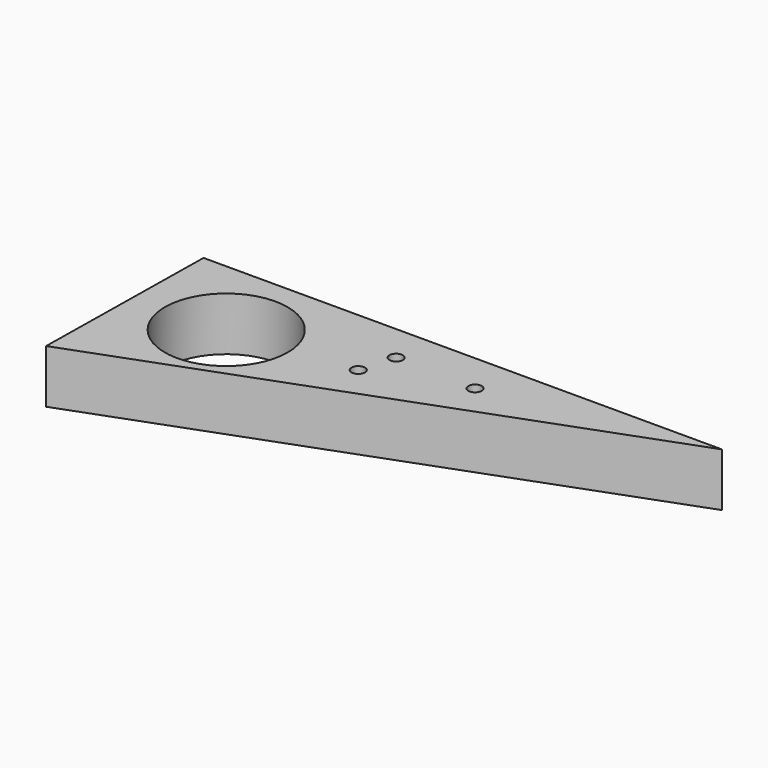
from build123d import *

# Parameters (mm, degrees)
F0_R     = 29.182002
F1_DEPTH = 25.4
F3_D     = 6.35


with BuildPart() as f1:
    # F0 (on Top) → F1 (new body)
    with BuildSketch(Plane.XY):
        Polygon((161.236733, 0), (-85.090756, 0), (-86.466879, -91.804653), align=None)
        with Locations((-42.430699, -39.840698)):
            Circle(F0_R, mode=Mode.SUBTRACT)
    extrude(amount=F1_DEPTH)

    # F3 (through all)
    with Locations(Plane.XY.offset(25.4)):
        with Locations((20.763323, -17.923191), (16.023301, -34.498475), (59.114777, -18.968618)):
            Hole(F3_D / 2)


solid = f1.part
